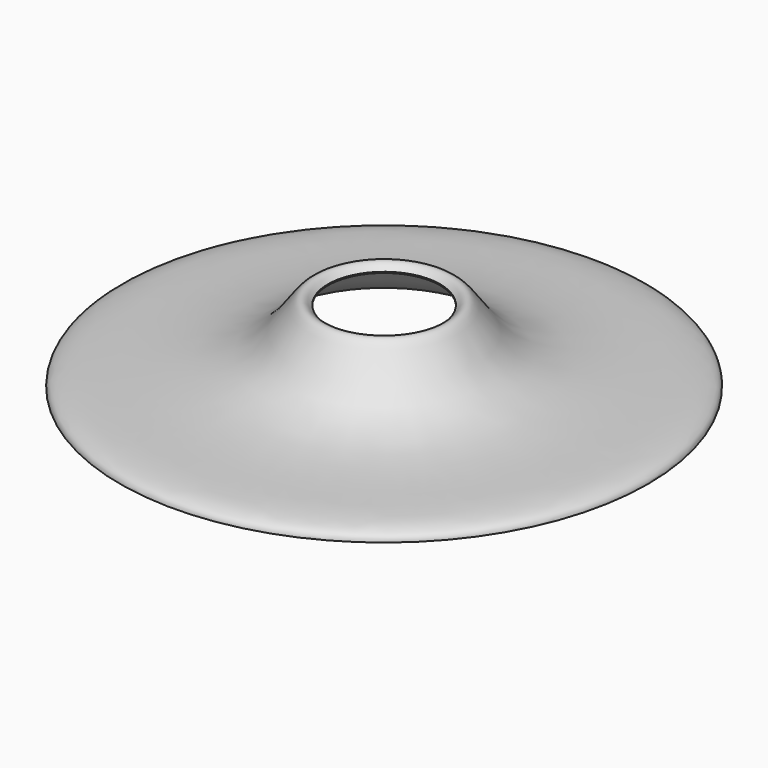
from build123d import *


with BuildPart() as f1:
    # F0 (on Front) → F1 (revolve)
    with BuildSketch(Plane.XZ):
        with BuildLine():
            add(Edge.make_bspline(
                [(39.6875, 50.8254), (42.1666021295, 54.0165575434), (50.6102086745, 59.6668443871), (69.1446126896, 11.4591891293), (148.2930511479, 9.1483933025), (186.8559801882, 7.4849781178), (186.69, 0)],
                knots=[0, 0, 0, 0, 0.123531922, 0.3815484565, 0.7592181038, 1, 1, 1, 1], degree=3))
            Line((39.6875, 50.8254), (39.6875, 50.038))
            add(Edge.make_bspline(
                [(185.89625, 0), (184.9887461681, 6.7851181216), (149.0504753952, 8.3916541702), (68.9335806924, 9.9368141587), (50.1793511063, 58.6054922166), (42.6820799464, 53.7876090832), (39.6875, 50.038)],
                knots=[0, 0, 0, 0, 0.237692049, 0.6157966724, 0.8759941467, 1, 1, 1, 1], degree=3))
            Line((185.89625, 0), (186.69, 0))
        make_face()
    revolve(axis=Axis((0, 0, 25.019), (0, 0, 1)))


solid = f1.part
